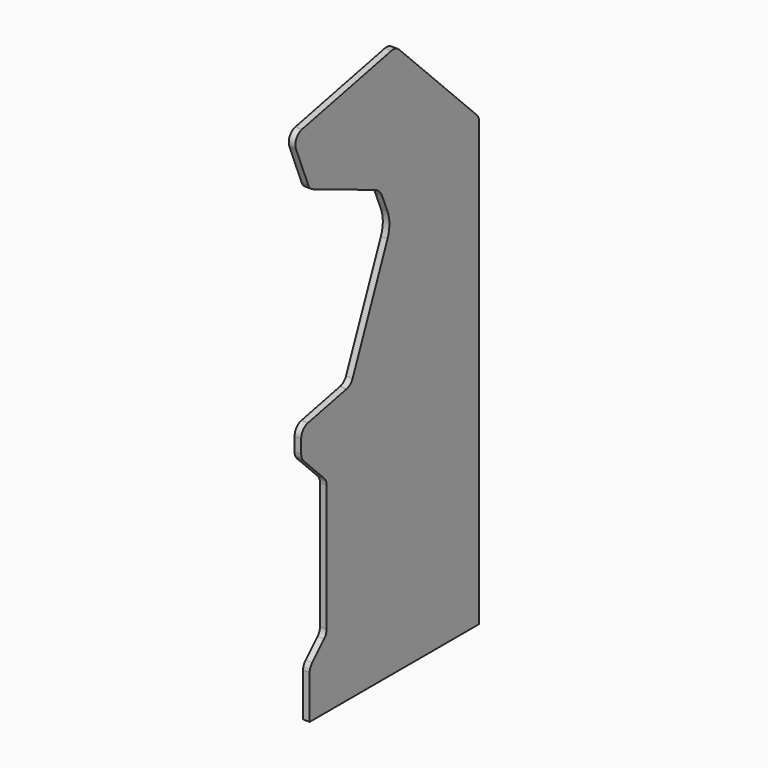
from build123d import *

# Parameters (mm, degrees)
F1_DEPTH = 25
F2_R     = 40
F3_SIZE  = 100
F4_R     = 120
F5_R     = 60


with BuildPart() as f1:
    # F0 (on Right) → F1 (new body)
    with BuildSketch(Plane.YZ):
        Polygon((0, 180), (0, 0), (800, 0), (800, 1684.6011072401), (406.6603498154, 2077.9407574247), (-82.4134505515, 1973.9849120159), (0, 1770.0044640112), (424.3654835952, 1594.226525303), (194.7554241761, 1039.8988057963), (-40, 990), (-40, 890), (80, 770), (80, 260), align=None)
    extrude(amount=F1_DEPTH)

    # F2
    f2_edges = [f1.edges().sort_by_distance(p)[0] for p in [
        (12.5, 194.755424, 1039.898806),
        (12.5, 0, 1770.004464),
        (12.5, -82.413451, 1973.984912),
        (12.5, 406.66035, 2077.940757),
        (12.5, 800, 1684.601107),
        (12.5, -40, 990),
        (12.5, -40, 890),
        (12.5, 80, 770),
        (12.5, 80, 260),
        (12.5, 0, 180),
    ]]
    fillet(f2_edges, radius=F2_R)

    # F3
    f3_edges = [f1.edges().sort_by_distance(p)[0] for p in [
        (12.5, 424.365484, 1594.226525),
    ]]
    chamfer(f3_edges, length=F3_SIZE)

    # F4
    f4_edges = [f1.edges().sort_by_distance(p)[0] for p in [
        (12.5, 386.09714, 1501.838572),
    ]]
    fillet(f4_edges, radius=F4_R)

    # F5
    f5_edges = [f1.edges().sort_by_distance(p)[0] for p in [
        (12.5, 331.97753, 1632.494869),
    ]]
    fillet(f5_edges, radius=F5_R)


solid = f1.part
